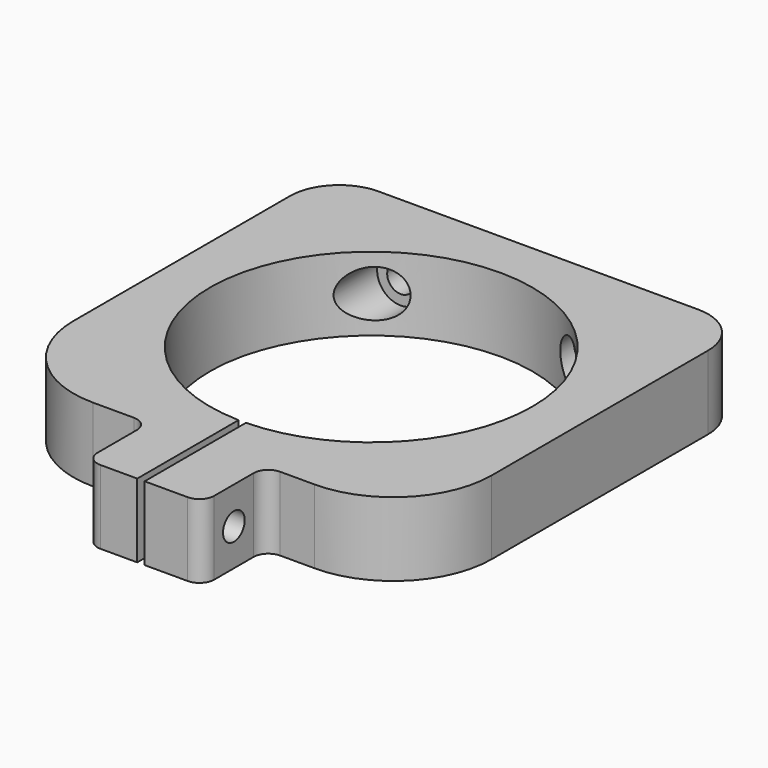
from build123d import *

# Parameters (mm, degrees)
F1_DEPTH  = 7.5
F2_R      = 32.7718142907
F3_DEPTH  = 8
F4_W      = 0.75
F4_H      = 80
F5_DEPTH  = 7.5
F6_R      = 2.7597283283
F7_DEPTH  = 25
F8_R      = 2.75
F9_DEPTH  = 25
F11_START = -10
F10_R     = 4.7926746231
F11_DEPTH = 12


with BuildPart() as f1:
    # F0 (on Top) → F1 (new body, symmetric)
    with BuildSketch(Plane.XY):
        with BuildLine():
            Line((0, 42.5), (-32.5, 42.5))
            ThreePointArc((-32.5, 42.5), (-39.5710678119, 39.5710678119), (-42.5, 32.5))
            Line((-42.5, 32.5), (-42.5, 0))
            Line((-42.5, 0), (-42.5, -22.5))
            ThreePointArc((-42.5, -22.5), (-36.6421356237, -36.6421356237), (-22.5, -42.5))
            Line((-22.5, -42.5), (-14.2230435639, -42.5))
            ThreePointArc((-14.2230435639, -42.5), (-12.1017232203, -43.3786796564), (-11.2230435639, -45.5))
            Line((-11.2230435639, -45.5), (-11.2230435639, -55.5))
            ThreePointArc((-11.2230435639, -55.5), (-10.3443639075, -57.6213203436), (-8.2230435639, -58.5))
            Line((-8.2230435639, -58.5), (9.5, -58.5))
            ThreePointArc((9.5, -58.5), (11.6213203436, -57.6213203436), (12.5, -55.5))
            Line((12.5, -55.5), (12.5, -45.5))
            ThreePointArc((12.5, -45.5), (13.3786796564, -43.3786796564), (15.5, -42.5))
            Line((15.5, -42.5), (22.5, -42.5))
            ThreePointArc((22.5, -42.5), (36.6421356237, -36.6421356237), (42.5, -22.5))
            Line((42.5, -22.5), (42.5, 0))
            Line((42.5, 0), (42.5, 32.5))
            ThreePointArc((42.5, 32.5), (39.5710678119, 39.5710678119), (32.5, 42.5))
            Line((32.5, 42.5), (0, 42.5))
        make_face()
    extrude(amount=F1_DEPTH, both=True)

    # F2 (on Top) → F3 (cut, symmetric)
    with BuildSketch(Plane.XY):
        Circle(F2_R)
    extrude(amount=F3_DEPTH, both=True, mode=Mode.SUBTRACT)

    # F4 (on Top) → F5 (cut, symmetric)
    with BuildSketch(Plane.XY):
        with Locations((0.375, -40)):
            Rectangle(F4_W, F4_H)
        with Locations((-0.375, -40)):
            Rectangle(F4_W, F4_H)
    extrude(amount=F5_DEPTH, both=True, mode=Mode.SUBTRACT)

    # F6 (on Right) → F7 (cut, symmetric)
    with BuildSketch(Plane.YZ):
        with Locations((-50.511858446, 0)):
            Circle(F6_R)
    extrude(amount=F7_DEPTH, both=True, mode=Mode.SUBTRACT)

    # F8 (on face) → F9 (cut)
    with BuildSketch(Plane(origin=(0, 42.5, 0), x_dir=(-1, 0, 0), z_dir=(0, 1, 0))):
        with Locations((20, 0)):
            Circle(F8_R)
        with Locations((-20, 0)):
            Circle(F8_R)
    extrude(amount=-F9_DEPTH, mode=Mode.SUBTRACT)

    # F10 (on face) → F11 (cut)
    with BuildSketch(Plane(origin=(0, 42.5, 0), x_dir=(-1, 0, 0), z_dir=(0, 1, 0)).offset(F11_START)):
        with Locations((20, 0)):
            Circle(F10_R)
        with Locations((-20, 0)):
            Circle(F10_R)
    extrude(amount=-F11_DEPTH, mode=Mode.SUBTRACT)


solid = f1.part
